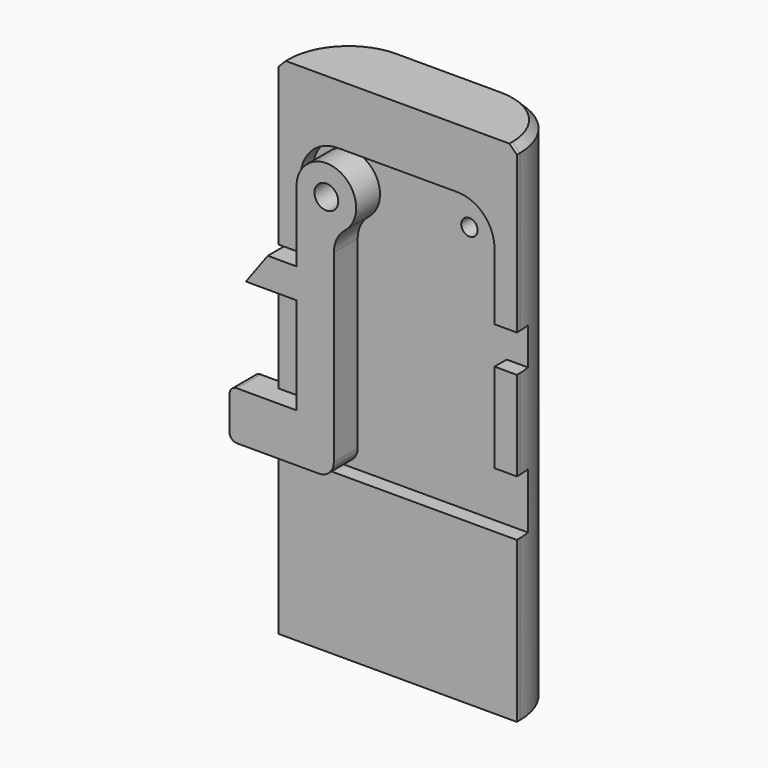
from build123d import *

# Parameters (mm, degrees)
F1_DEPTH = 34
F2_SIZE  = 1
F3_W     = 74.736379
F3_H     = 20.344906
F4_DEPTH = 35
F5_R     = 1.1
F6_DEPTH = 2.05
F7_DEPTH = 25
F8_R     = 1.6
F9_DEPTH = 4


with BuildPart() as f1:
    # F0 (on Top) → F1 (new body, symmetric)
    with BuildSketch(Plane.XY):
        with BuildLine():
            Line((-7, -9.5), (7, -9.5))
            ThreePointArc((7, -9.5), (13.363961, -6.863961), (16, -0.5))
            Line((16, -0.5), (16, 0.5))
            ThreePointArc((16, 0.5), (13.363961, 6.863961), (7, 9.5))
            Line((7, 9.5), (-7, 9.5))
            ThreePointArc((-7, 9.5), (-13.363961, 6.863961), (-16, 0.5))
            Line((-16, 0.5), (-16, -0.5))
            ThreePointArc((-16, -0.5), (-13.363961, -6.863961), (-7, -9.5))
        make_face()
    extrude(amount=F1_DEPTH, both=True)

    # F2
    f2_edges = [f1.edges().sort_by_distance(p)[0] for p in [
        (0, -9.5, 34),
        (13.363961, -6.863961, 34),
        (16, 0, 34),
        (13.363961, 6.863961, 34),
        (0, 9.5, 34),
        (-13.363961, 6.863961, 34),
        (-16, 0, 34),
        (-13.363961, -6.863961, 34),
    ]]
    chamfer(f2_edges, length=F2_SIZE)

    # F3 (on Top) → F4 (cut, symmetric)
    with BuildSketch(Plane.XY):
        with Locations((1.93761, -10.172453)):
            Rectangle(F3_W, F3_H)
    extrude(amount=F4_DEPTH, both=True, mode=Mode.SUBTRACT)

    # F5 (on Front) → F6 (cut)
    with BuildSketch(Plane.XZ):
        with BuildLine():
            ThreePointArc((13, 21), (11.535534, 24.535534), (8, 26))
            Line((8, 26), (-8, 26))
            ThreePointArc((-8, 26), (-11.535534, 24.535534), (-13, 21))
            Line((-13, 21), (-13, 12))
            Line((-13, 12), (-30, 12))
            Line((-30, 12), (-30, 7))
            Line((-30, 7), (-13, 7))
            Line((-13, 7), (-13, -5))
            Line((-13, -5), (-20.453356, -5))
            Line((-20.453356, -5), (-20.453356, -12.5))
            Line((-20.453356, -12.5), (19.970084, -12.5))
            Line((19.970084, -12.5), (19.970084, -5))
            Line((19.970084, -5), (13, -5))
            Line((13, -5), (13, 7))
            Line((13, 7), (30, 7))
            Line((30, 7), (30, 12))
            Line((30, 12), (13, 12))
            Line((13, 12), (13, 21))
        make_face()
        with Locations((-8, 21)):
            Circle(F5_R, mode=Mode.SUBTRACT)
        with Locations((8, 21)):
            Circle(F5_R, mode=Mode.SUBTRACT)
        with Locations((-8, 21)):
            Circle(F5_R)
        with Locations((8, 21)):
            Circle(F5_R)
    extrude(amount=-F6_DEPTH, mode=Mode.SUBTRACT)

    # F5 (on Front) → F7 (cut)
    with BuildSketch(Plane.XZ):
        with Locations((-8, 21)):
            Circle(F5_R)
        with Locations((8, 21)):
            Circle(F5_R)
    extrude(amount=-F7_DEPTH, mode=Mode.SUBTRACT)


with BuildPart() as f9:
    # F8 (on face) → F9 (new body)
    with BuildSketch(Plane.XZ.offset(-2.05)):
        with BuildLine():
            Line((-12, 11.5), (-15.865523, 11.5))
            Line((-15.865523, 11.5), (-18.8, 7.5))
            Line((-18.8, 7.5), (-12, 7.5))
            Line((-12, 7.5), (-12, -5.5))
            Line((-12, -5.5), (-20, -5.5))
            ThreePointArc((-20, -5.5), (-20.707107, -5.792893), (-21, -6.5))
            Line((-21, -6.5), (-21, -11))
            ThreePointArc((-21, -11), (-20.707107, -11.707107), (-20, -12))
            Line((-20, -12), (-9, -12))
            ThreePointArc((-9, -12), (-7.585786, -11.414214), (-7, -10))
            Line((-7, -10), (-7, -1))
            Line((-7, -1), (-7, 1))
            Line((-7, 1), (-7, 14.755002))
            ThreePointArc((-7, 14.755002), (-6.605551, 16.487053), (-5.5, 17.877501))
            ThreePointArc((-5.5, 17.877501), (-6.267949, 24.605551), (-12, 21))
            Line((-12, 21), (-12, 11.5))
        make_face()
        with Locations((-8, 21)):
            Circle(F8_R, mode=Mode.SUBTRACT)
    extrude(amount=F9_DEPTH)


solid = Compound([f1.part, f9.part])
